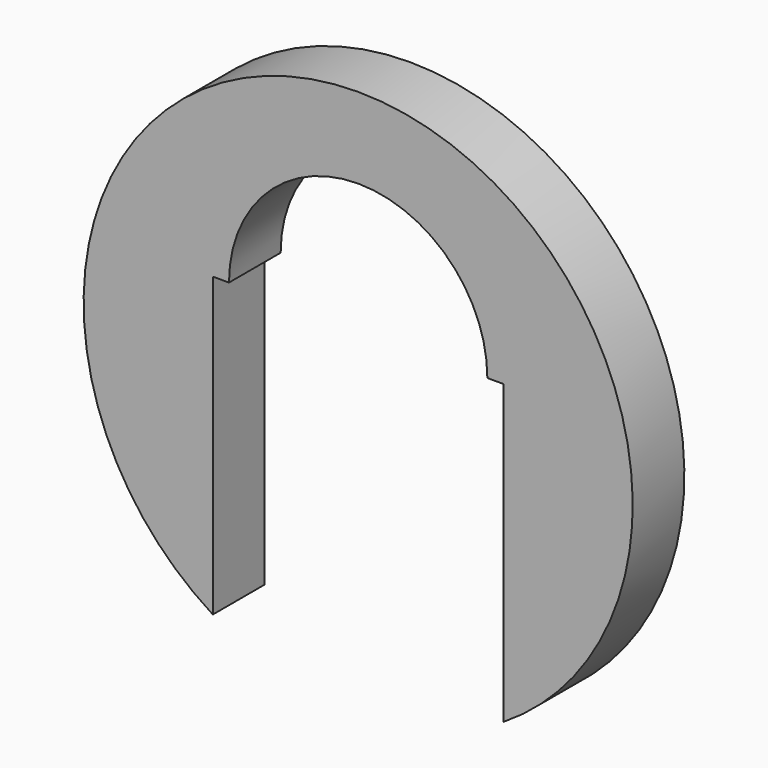
from build123d import *

# Parameters (mm, degrees)
F1_DEPTH = 2


with BuildPart() as f1:
    # F0 (on Front) → F1 (new body)
    with BuildSketch(Plane.XZ):
        with BuildLine():
            Line((-4.5, 2), (-4, 2))
            ThreePointArc((-4, 2), (0, 6), (4, 2))
            Line((4, 2), (4.5, 2))
            Line((4.5, 2), (4.5, -4.5))
            Line((4.5, -4.5), (4.5, -7.211103))
            ThreePointArc((4.5, -7.211103), (0, 8.5), (-4.5, -7.211103))
            Line((-4.5, -7.211103), (-4.5, -4.5))
            Line((-4.5, -4.5), (-4.5, 2))
        make_face()
    extrude(amount=F1_DEPTH)


solid = f1.part
